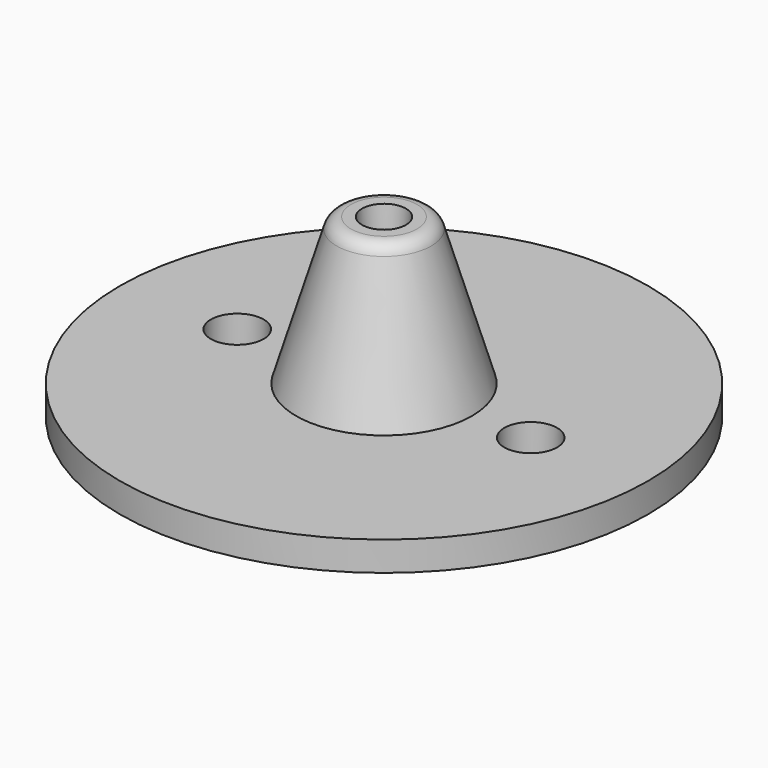
from build123d import *

# Parameters (mm, degrees)
SKETCH004_R   = 18
SKETCH004_R_2 = 1.8
PAD_DEPTH     = 2
SKETCH_R      = 1
SKETCH001_R   = 1.5
SKETCH002_R   = 6
SKETCH003_R   = 3
FILLET_R      = 1


with BuildPart() as pad:
    # Sketch004 → Pad (new body)
    with BuildSketch(Plane(origin=(0, 0, 0), x_dir=(1, 0, 0), z_dir=(0, 0, -1))):
        Circle(SKETCH004_R)
        with Locations((-10, 0)):
            Circle(SKETCH004_R_2, mode=Mode.SUBTRACT)
        with Locations((10, 0)):
            Circle(SKETCH004_R_2, mode=Mode.SUBTRACT)
    extrude(amount=PAD_DEPTH)


with BuildPart() as loft_body:
    # Sketch → Loft section 0
    with BuildSketch(Plane.XY):
        Circle(SKETCH_R)
    # Sketch001 → Loft section 1
    with BuildSketch(Plane.XY.offset(10)):
        Circle(SKETCH001_R)
    loft()


with BuildPart() as fillet_body:
    # Sketch002 → Loft001 section 0
    with BuildSketch(Plane.XY):
        Circle(SKETCH002_R)
    # Sketch003 → Loft001 section 1
    with BuildSketch(Plane.XY.offset(10)):
        Circle(SKETCH003_R)
    loft()

    # Cut: cut Loft body
    add(loft_body.part, mode=Mode.SUBTRACT)

    # Fillet
    fillet_edges = [fillet_body.edges().sort_by_distance(p)[0] for p in [
        (-3, 0, 10),
    ]]
    fillet(fillet_edges, radius=FILLET_R)


solid = Compound([pad.part, fillet_body.part])
